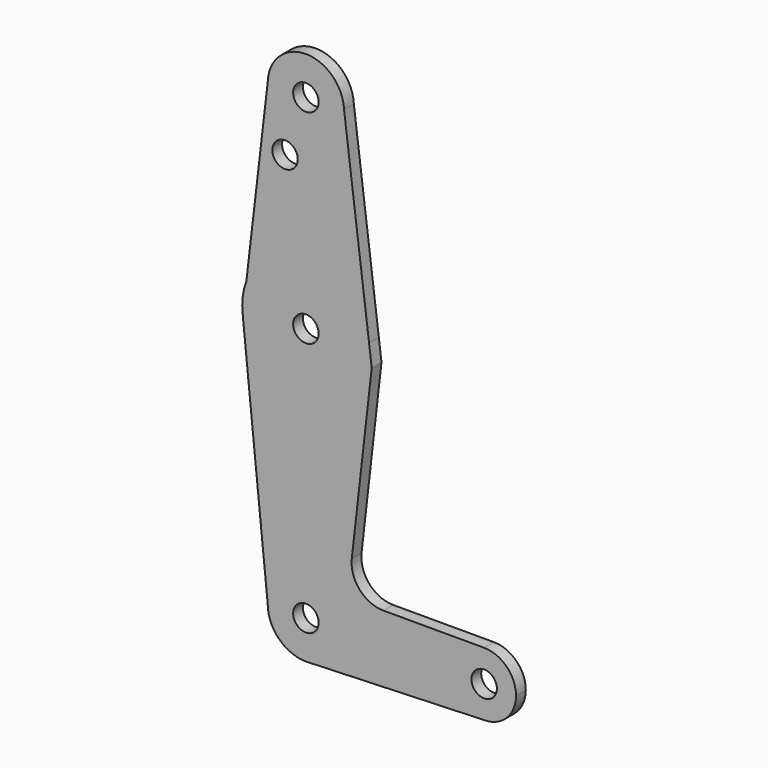
from build123d import *

# Parameters (mm, degrees)
F0_R     = 3.175
F1_DEPTH = 3.048


with BuildPart() as f1:
    # F0 (on Front) → F1 (new body)
    with BuildSketch(Plane.XZ):
        with BuildLine():
            ThreePointArc((0.3412706881, -9.5188843526), (6.854787681, -6.6134341191), (9.525, 0))
            ThreePointArc((9.525, 0), (0, 9.525), (-9.525, 0))
            ThreePointArc((-9.525, 0), (-6.6134341191, -6.854787681), (0.3412706881, -9.5188843526))
        make_face()
        Circle(F0_R, mode=Mode.SUBTRACT)
        with BuildLine():
            ThreePointArc((-9.525, 0), (0, 9.525), (9.525, 0))
            ThreePointArc((9.525, 0), (6.854787681, -6.6134341191), (0.3412706881, -9.5188843526))
            Line((0.3412706881, -9.5188843526), (44.45, -7.9375))
            ThreePointArc((44.45, -7.9375), (36.5125000627, -0.0009980455), (44.4480039089, 7.937499749))
            Line((44.4480039089, 7.937499749), (19.3436840459, 7.9311866139))
            ThreePointArc((19.3436840459, 7.9311866139), (13.4101741754, 10.5877239052), (11.4428863331, 16.7839734409))
            Line((11.4428863331, 16.7839734409), (16.4114542892, 60.2653368433))
            Line((16.4114542892, 60.2653368433), (15.7492029353, 65.4945505513))
            ThreePointArc((15.7492029353, 65.4945505513), (15.8435195206, 64.4992568242), (15.875, 63.5))
            ThreePointArc((15.875, 63.5), (1.0273745854, 47.65827893), (-15.7420238061, 61.4495582215))
            Line((-15.7420238061, 61.4495582215), (-15.7455208721, 61.4197084481))
            Line((-15.7455208721, 61.4197084481), (-9.525, 0))
        make_face()
        with BuildLine():
            ThreePointArc((44.4480039089, 7.937499749), (36.5125000627, -0.0009980455), (44.45, -7.9375))
            ThreePointArc((44.45, -7.9375), (50.0626600757, -5.6126600757), (52.3875, 0))
            ThreePointArc((52.3875, 0), (50.0619543065, 5.6133657561), (44.4480039089, 7.937499749))
        make_face()
        with Locations((44.45, 0)):
            Circle(F0_R, mode=Mode.SUBTRACT)
        with BuildLine():
            Line((-14.8418067649, 69.1335066302), (-15.7420238061, 61.4495582215))
            ThreePointArc((-15.7420238061, 61.4495582215), (1.0273745854, 47.65827893), (15.875, 63.5))
            ThreePointArc((15.875, 63.5), (15.8435195206, 64.4992568242), (15.7492029353, 65.4945505513))
            ThreePointArc((15.7492029353, 65.4945505513), (1.8751912672, 79.2638600194), (-14.8418067649, 69.1335066302))
        make_face()
        with Locations((0, 63.5)):
            Circle(F0_R, mode=Mode.SUBTRACT)
        with BuildLine():
            ThreePointArc((-14.8418067649, 69.1335066302), (-15.7671633114, 65.3472103598), (-15.7420238061, 61.4495582215))
            Line((-15.7420238061, 61.4495582215), (-14.8418067649, 69.1335066302))
        make_face()
        with BuildLine():
            Line((-9.5219182303, 114.542277148), (-14.8418067649, 69.1335066302))
            ThreePointArc((-14.8418067649, 69.1335066302), (1.8751912672, 79.2638600194), (15.7492029353, 65.4945505513))
            Line((15.7492029353, 65.4945505513), (9.5160872471, 114.7119569218))
            ThreePointArc((9.5160872471, 114.7119569218), (9.5227715511, 114.5060266625), (9.525, 114.3))
            ThreePointArc((9.525, 114.3), (-0.1211483736, 104.7757704736), (-9.5219182303, 114.542277148))
        make_face()
        with Locations((-5.2008880302, 100.0252)):
            Circle(F0_R, mode=Mode.SUBTRACT)
        with BuildLine():
            ThreePointArc((9.5160872471, 114.7119569218), (-0.084889967, 123.8246217087), (-9.5219182303, 114.542277148))
            ThreePointArc((-9.5219182303, 114.542277148), (-0.1211483736, 104.7757704736), (9.525, 114.3))
            ThreePointArc((9.525, 114.3), (9.5227715511, 114.5060266625), (9.5160872471, 114.7119569218))
        make_face()
        with Locations((0, 114.3)):
            Circle(F0_R, mode=Mode.SUBTRACT)
    extrude(amount=F1_DEPTH)


solid = f1.part
